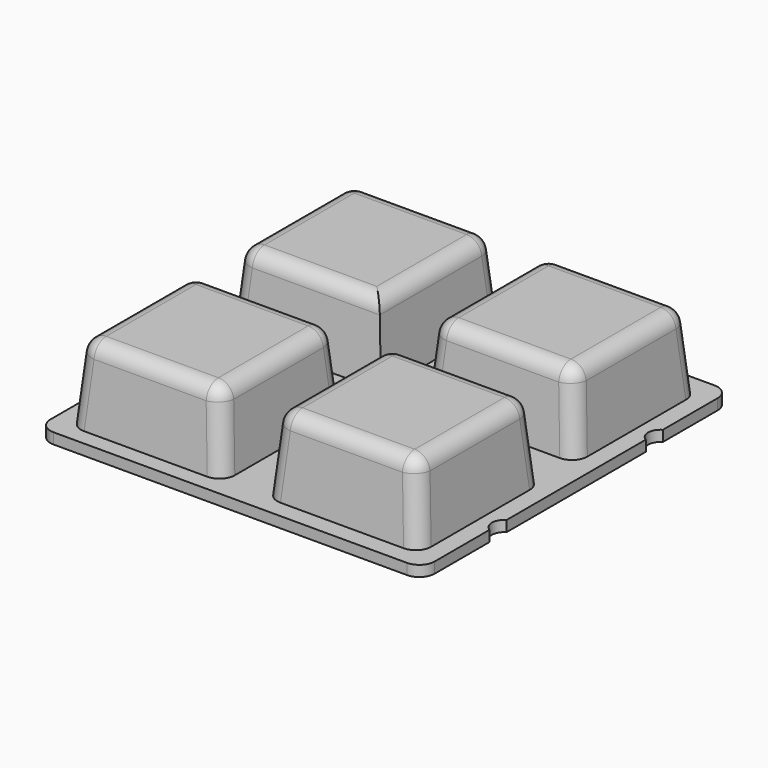
from build123d import *

# Parameters (mm, degrees)
F0_R     = 1.55
F1_DEPTH = 1.4
F2_W     = 20
F2_H     = 20
F3_DEPTH = 10
F3_TAPER = 5
F4_R     = 3.75
F4_R_2   = 3.5
F5_DEPTH = 0.5
F7_DEPTH = 1.4
F8_R     = 2


with BuildPart() as f1:
    # F0 (on Top) → F1 (new body)
    with BuildSketch(Plane.XY):
        with BuildLine():
            Line((23, 25), (-23.5878064872, 25))
            Line((-23.5878064872, 25), (-25, 23.5878064872))
            Line((-25, 23.5878064872), (-25, 14.0856406461))
            ThreePointArc((-25, 14.0856406461), (-24.2, 12.7), (-25, 11.3143593539))
            Line((-25, 11.3143593539), (-25, -11.3143593539))
            ThreePointArc((-25, -11.3143593539), (-24.2, -12.7), (-25, -14.0856406461))
            Line((-25, -14.0856406461), (-25, -23))
            ThreePointArc((-25, -23), (-24.4142135624, -24.4142135624), (-23, -25))
            Line((-23, -25), (23, -25))
            ThreePointArc((23, -25), (24.4142135624, -24.4142135624), (25, -23))
            Line((25, -23), (25, -14.0856406461))
            ThreePointArc((25, -14.0856406461), (24.2, -12.7), (25, -11.3143593539))
            Line((25, -11.3143593539), (25, 11.3143593539))
            ThreePointArc((25, 11.3143593539), (24.2, 12.7), (25, 14.0856406461))
            Line((25, 14.0856406461), (25, 23))
            ThreePointArc((25, 23), (24.4142135624, 24.4142135624), (23, 25))
        make_face()
        Circle(F0_R, mode=Mode.SUBTRACT)
        with BuildLine():
            Line((23, 25), (-23.5878064872, 25))
            Line((-23.5878064872, 25), (-25, 23.5878064872))
            Line((-25, 23.5878064872), (-25, 14.0856406461))
            ThreePointArc((-25, 14.0856406461), (-24.2, 12.7), (-25, 11.3143593539))
            Line((-25, 11.3143593539), (-25, -11.3143593539))
            ThreePointArc((-25, -11.3143593539), (-24.2, -12.7), (-25, -14.0856406461))
            Line((-25, -14.0856406461), (-25, -23))
            ThreePointArc((-25, -23), (-24.4142135624, -24.4142135624), (-23, -25))
            Line((-23, -25), (23, -25))
            ThreePointArc((23, -25), (24.4142135624, -24.4142135624), (25, -23))
            Line((25, -23), (25, -14.0856406461))
            ThreePointArc((25, -14.0856406461), (24.2, -12.7), (25, -11.3143593539))
            Line((25, -11.3143593539), (25, 11.3143593539))
            ThreePointArc((25, 11.3143593539), (24.2, 12.7), (25, 14.0856406461))
            Line((25, 14.0856406461), (25, 23))
            ThreePointArc((25, 23), (24.4142135624, 24.4142135624), (23, 25))
        make_face()
        Circle(F0_R, mode=Mode.SUBTRACT)
    extrude(amount=F1_DEPTH)

    # F2 (on face) → F3 (join)
    with BuildSketch(Plane.XY.offset(1.4)):
        with Locations((-12.7, 12.8739687322)):
            Rectangle(F2_W, F2_H)
        with Locations((12.6994042229, 12.7)):
            Rectangle(F2_W, F2_H)
        with Locations((12.6994042229, -12.7)):
            Rectangle(F2_W, F2_H)
        with Locations((-12.7, -12.8739687322)):
            Rectangle(F2_W, F2_H)
    extrude(amount=F3_DEPTH, taper=F3_TAPER)

    # F4 (on face) → F5 (join)
    with BuildSketch(Plane.XY.offset(1.4)):
        Circle(F4_R)
        Circle(F4_R_2, mode=Mode.SUBTRACT)
    extrude(amount=F5_DEPTH)

    # F6 (on face) → F7 (join)
    with BuildSketch(Plane(origin=(0, 0, 0), x_dir=(1, 0, 0), z_dir=(0, 0, -1))):
        with BuildLine():
            Line((-22.8843539953, 0.25), (-23.4682458366, 0.25))
            ThreePointArc((-23.4682458366, 0.25), (-23.5, 0), (-23.4682458366, -0.25))
            Line((-23.4682458366, -0.25), (-22.8843539953, -0.25))
            ThreePointArc((-22.8843539953, -0.25), (-22.7951967548, -0.2895183078), (-22.75, -0.3759356876))
            ThreePointArc((-22.75, -0.3759356876), (-22.7484251347, -0.397465641), (-22.75, -0.4189955944))
            Line((-22.75, -0.4189955944), (-22.75, -0.9682458366))
            ThreePointArc((-22.75, -0.9682458366), (-22.5, -1), (-22.25, -0.9682458366))
            Line((-22.25, -0.9682458366), (-22.25, -0.4189955944))
            ThreePointArc((-22.25, -0.4189955944), (-22.2515748653, -0.397465641), (-22.25, -0.3759356876))
            ThreePointArc((-22.25, -0.3759356876), (-22.2048032452, -0.2895183078), (-22.1156460047, -0.25))
            Line((-22.1156460047, -0.25), (-21.5317541634, -0.25))
            ThreePointArc((-21.5317541634, -0.25), (-21.5, 0), (-21.5317541634, 0.25))
            Line((-21.5317541634, 0.25), (-22.1156460047, 0.25))
            ThreePointArc((-22.1156460047, 0.25), (-22.2048032452, 0.2895183078), (-22.25, 0.3759356876))
            ThreePointArc((-22.25, 0.3759356876), (-22.2515748653, 0.397465641), (-22.25, 0.4189955944))
            Line((-22.25, 0.4189955944), (-22.25, 0.9682458366))
            ThreePointArc((-22.25, 0.9682458366), (-22.5, 1), (-22.75, 0.9682458366))
            Line((-22.75, 0.9682458366), (-22.75, 0.4189955944))
            ThreePointArc((-22.75, 0.4189955944), (-22.7484251347, 0.397465641), (-22.75, 0.3759356876))
            ThreePointArc((-22.75, 0.3759356876), (-22.7951967548, 0.2895183078), (-22.8843539953, 0.25))
        make_face()
        with BuildLine():
            Line((-22.75, 0.4189955944), (-22.75, 0.3759356876))
            ThreePointArc((-22.75, 0.3759356876), (-22.7484251347, 0.397465641), (-22.75, 0.4189955944))
        make_face()
        with BuildLine():
            ThreePointArc((-22.75, -0.4189955944), (-22.7484251347, -0.397465641), (-22.75, -0.3759356876))
            Line((-22.75, -0.3759356876), (-22.75, -0.4189955944))
        make_face()
        with BuildLine():
            Line((-22.25, 0.3759356876), (-22.25, 0.4189955944))
            ThreePointArc((-22.25, 0.4189955944), (-22.2515748653, 0.397465641), (-22.25, 0.3759356876))
        make_face()
        with BuildLine():
            ThreePointArc((-22.25, -0.3759356876), (-22.2515748653, -0.397465641), (-22.25, -0.4189955944))
            Line((-22.25, -0.4189955944), (-22.25, -0.3759356876))
        make_face()
        with BuildLine():
            Line((22.1181050964, 0.8344019427), (22.1181050964, -0.8344019427))
            ThreePointArc((22.1181050964, -0.8344019427), (22.5036541776, -0.9220035064), (22.8818949036, -0.8068684502))
            Line((22.8818949036, -0.8068684502), (22.8818949036, 0.8068684502))
            ThreePointArc((22.8818949036, 0.8068684502), (22.5036541776, 0.9220035064), (22.1181050964, 0.8344019427))
        make_face()
    extrude(amount=F7_DEPTH)

    # F8
    f8_edges = [f1.edges().sort_by_distance(p)[0] for p in [
        (-3.574887, 12.873969, 11.4),
        (-12.7, 21.999082, 11.4),
        (-21.825113, 12.873969, 11.4),
        (-12.7, 3.748855, 11.4),
        (12.699404, 3.574887, 11.4),
        (21.824518, 12.7, 11.4),
        (12.699404, 21.825113, 11.4),
        (3.574291, 12.7, 11.4),
        (12.699404, -21.825113, 11.4),
        (21.824518, -12.7, 11.4),
        (12.699404, -3.574887, 11.4),
        (3.574291, -12.7, 11.4),
        (-12.7, -3.748855, 11.4),
        (-21.825113, -12.873969, 11.4),
        (-12.7, -21.999082, 11.4),
        (-3.574887, -12.873969, 11.4),
        (-22.262557, 3.311412, 6.4),
        (-22.262557, -3.311412, 6.4),
        (-22.262557, -22.436525, 6.4),
        (-3.137443, -22.436525, 6.4),
        (3.136848, -22.262557, 6.4),
        (22.261961, -22.262557, 6.4),
        (3.136848, 3.137443, 6.4),
        (22.261961, 3.137443, 6.4),
        (22.261961, 22.262557, 6.4),
        (3.136848, 22.262557, 6.4),
        (-3.137443, 22.436525, 6.4),
        (-22.262557, 22.436525, 6.4),
        (22.261961, -3.137443, 6.4),
        (3.136848, -3.137443, 6.4),
        (-3.137443, -3.311412, 6.4),
    ]]
    fillet(f8_edges, radius=F8_R)


solid = f1.part
